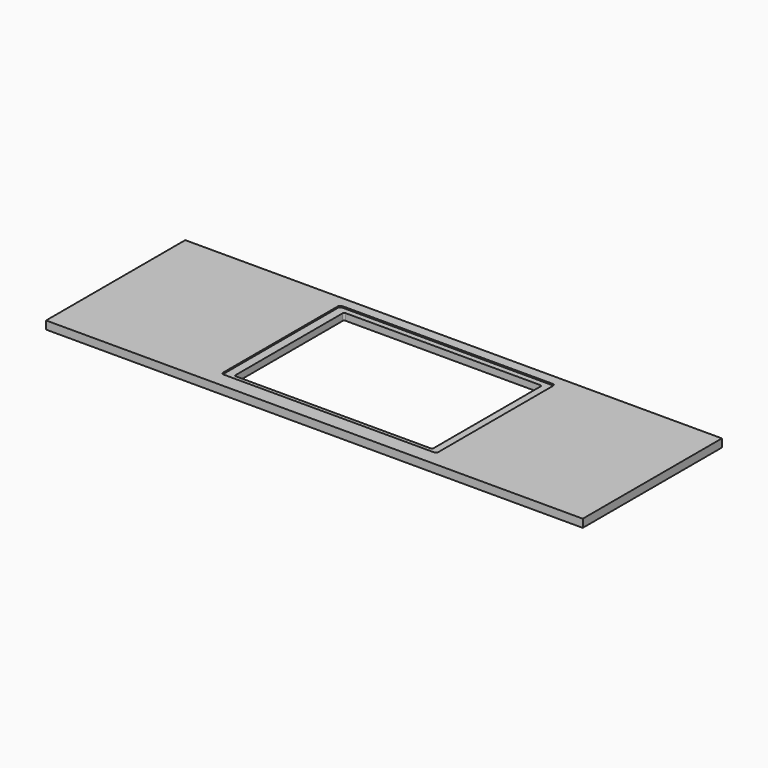
from build123d import *

# Parameters (mm, degrees)
F0_W     = 1990
F0_H     = 645
F1_DEPTH = 30
F3_DEPTH = 5


with BuildPart() as f1:
    # F0 (on Top) → F1 (new body)
    with BuildSketch(Plane.XY):
        with Locations((-995, 322.5)):
            Rectangle(F0_W, F0_H)
        with BuildLine():
            ThreePointArc((-1353.5, 579), (-1351.742641, 583.242641), (-1347.5, 585))
            Line((-1347.5, 585), (-625.5, 585))
            ThreePointArc((-625.5, 585), (-621.257359, 583.242641), (-619.5, 579))
            Line((-619.5, 579), (-619.5, 83))
            ThreePointArc((-619.5, 83), (-621.257359, 78.757359), (-625.5, 77))
            Line((-625.5, 77), (-1347.5, 77))
            ThreePointArc((-1347.5, 77), (-1351.742641, 78.757359), (-1353.5, 83))
            Line((-1353.5, 83), (-1353.5, 579))
        make_face(mode=Mode.SUBTRACT)
        with Locations((-995, 322.5)):
            Rectangle(F0_W, F0_H)
        with BuildLine():
            ThreePointArc((-1353.5, 579), (-1351.742641, 583.242641), (-1347.5, 585))
            Line((-1347.5, 585), (-625.5, 585))
            ThreePointArc((-625.5, 585), (-621.257359, 583.242641), (-619.5, 579))
            Line((-619.5, 579), (-619.5, 83))
            ThreePointArc((-619.5, 83), (-621.257359, 78.757359), (-625.5, 77))
            Line((-625.5, 77), (-1347.5, 77))
            ThreePointArc((-1347.5, 77), (-1351.742641, 78.757359), (-1353.5, 83))
            Line((-1353.5, 83), (-1353.5, 579))
        make_face(mode=Mode.SUBTRACT)
    extrude(amount=F1_DEPTH)

    # F2 (on face) → F3 (cut)
    with BuildSketch(Plane.XY.offset(30)):
        with BuildLine():
            Line((-587.5, 65), (-587.5, 597))
            ThreePointArc((-587.5, 597), (-590.136039, 603.363961), (-596.5, 606))
            Line((-596.5, 606), (-1376.5, 606))
            ThreePointArc((-1376.5, 606), (-1382.863961, 603.363961), (-1385.5, 597))
            Line((-1385.5, 597), (-1385.5, 65))
            ThreePointArc((-1385.5, 65), (-1382.863961, 58.636039), (-1376.5, 56))
            Line((-1376.5, 56), (-596.5, 56))
            ThreePointArc((-596.5, 56), (-590.136039, 58.636039), (-587.5, 65))
        make_face()
        with BuildLine():
            Line((-625.5, 77), (-1347.5, 77))
            ThreePointArc((-1347.5, 77), (-1351.742641, 78.757359), (-1353.5, 83))
            Line((-1353.5, 83), (-1353.5, 579))
            ThreePointArc((-1353.5, 579), (-1351.742641, 583.242641), (-1347.5, 585))
            Line((-1347.5, 585), (-625.5, 585))
            ThreePointArc((-625.5, 585), (-621.257359, 583.242641), (-619.5, 579))
            Line((-619.5, 579), (-619.5, 83))
            ThreePointArc((-619.5, 83), (-621.257359, 78.757359), (-625.5, 77))
        make_face(mode=Mode.SUBTRACT)
    extrude(amount=-F3_DEPTH, mode=Mode.SUBTRACT)


solid = f1.part
